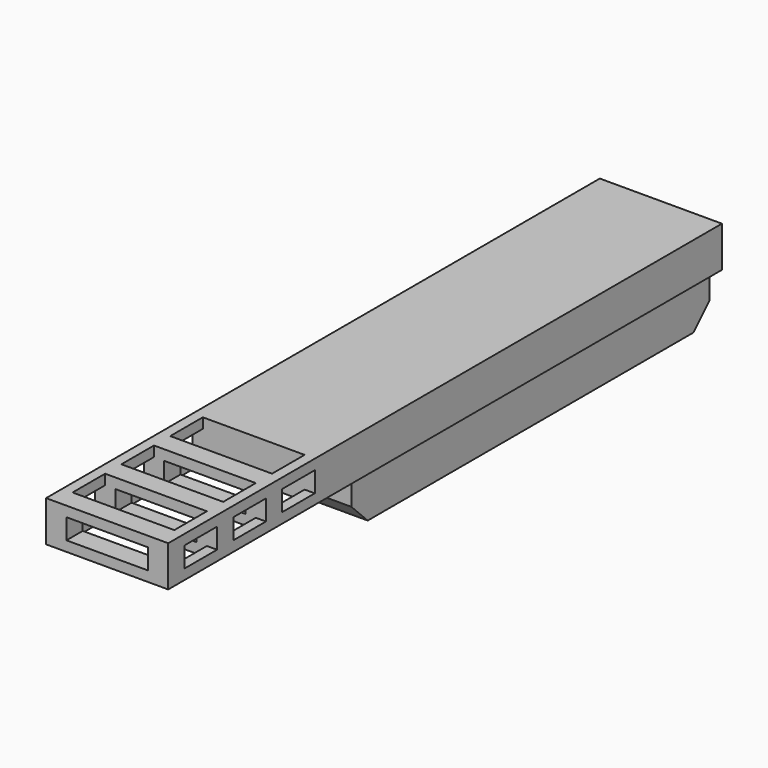
from build123d import *

# Parameters (mm, degrees)
F0_W      = 30
F0_H      = 10
F1_DEPTH  = 120
F2_W      = 30
F2_H      = 10
F3_DEPTH  = 50
F4_W      = 10
F4_H      = 5
F5_DEPTH  = 30.001
F6_W      = 25
F6_H      = 10
F7_DEPTH  = 10.001
F8_W      = 20
F8_H      = 5
F9_DEPTH  = 45
F10_W     = 24
F10_H     = 110
F11_DEPTH = 12.5
F12_SIZE  = 5


with BuildPart() as f1:
    # F0 (on Front) → F1 (new body)
    with BuildSketch(Plane.XZ):
        Rectangle(F0_W, F0_H)
    extrude(amount=F1_DEPTH)

    # F2 (on face) → F3 (join)
    with BuildSketch(Plane.XZ.offset(120)):
        Rectangle(F2_W, F2_H)
    extrude(amount=F3_DEPTH)

    # F4 (on face) → F5 (cut, through all)
    with BuildSketch(Plane(origin=(-15, 0, 0), x_dir=(0, -1, 0), z_dir=(-1, 0, 0))):
        with Locations((160, 0)):
            Rectangle(F4_W, F4_H)
        with Locations((145, 0)):
            Rectangle(F4_W, F4_H)
        with Locations((130, 0)):
            Rectangle(F4_W, F4_H)
    extrude(amount=-F5_DEPTH, mode=Mode.SUBTRACT)

    # F6 (on face) → F7 (cut, through all)
    with BuildSketch(Plane.XY.offset(5)):
        with Locations((0, -160)):
            Rectangle(F6_W, F6_H)
        with Locations((0, -145)):
            Rectangle(F6_W, F6_H)
        with Locations((0, -130)):
            Rectangle(F6_W, F6_H)
    extrude(amount=-F7_DEPTH, mode=Mode.SUBTRACT)

    # F8 (on face) → F9 (cut)
    with BuildSketch(Plane.XZ.offset(170)):
        Rectangle(F8_W, F8_H)
    extrude(amount=-F9_DEPTH, mode=Mode.SUBTRACT)

    # F10 (on face) → F11 (join)
    with BuildSketch(Plane(origin=(0, 0, -5), x_dir=(1, 0, 0), z_dir=(0, 0, -1))):
        with Locations((0, 55)):
            Rectangle(F10_W, F10_H)
    extrude(amount=F11_DEPTH)

    # F12
    f12_edges = [f1.edges().sort_by_distance(p)[0] for p in [
        (0, -110, -17.5),
        (0, 0, -17.5),
    ]]
    chamfer(f12_edges, length=F12_SIZE)


solid = f1.part
